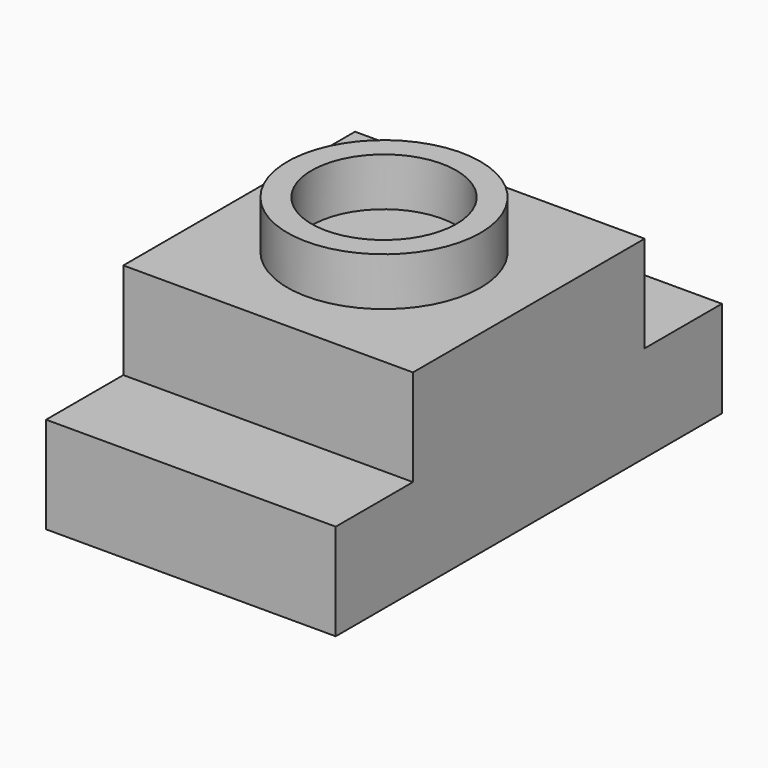
from build123d import *

# Parameters (mm, degrees)
F1_DEPTH = 38.1
F2_R     = 12.7
F2_R_2   = 9.525
F3_DEPTH = 6.35


with BuildPart() as f1:
    # F0 (on Right) → F1 (new body)
    with BuildSketch(Plane.YZ):
        Polygon((-31.75, 0), (0, 0), (31.75, 0), (31.75, 12.7), (19.05, 12.7), (19.05, 25.4), (-19.05, 25.4), (-19.05, 12.7), (-31.75, 12.7), align=None)
    extrude(amount=F1_DEPTH)

    # F2 (on face) → F3 (join)
    with BuildSketch(Plane.XY.offset(25.4)):
        with Locations((19.05, 0)):
            Circle(F2_R)
        with Locations((19.05, 0)):
            Circle(F2_R_2, mode=Mode.SUBTRACT)
    extrude(amount=F3_DEPTH)


solid = f1.part
